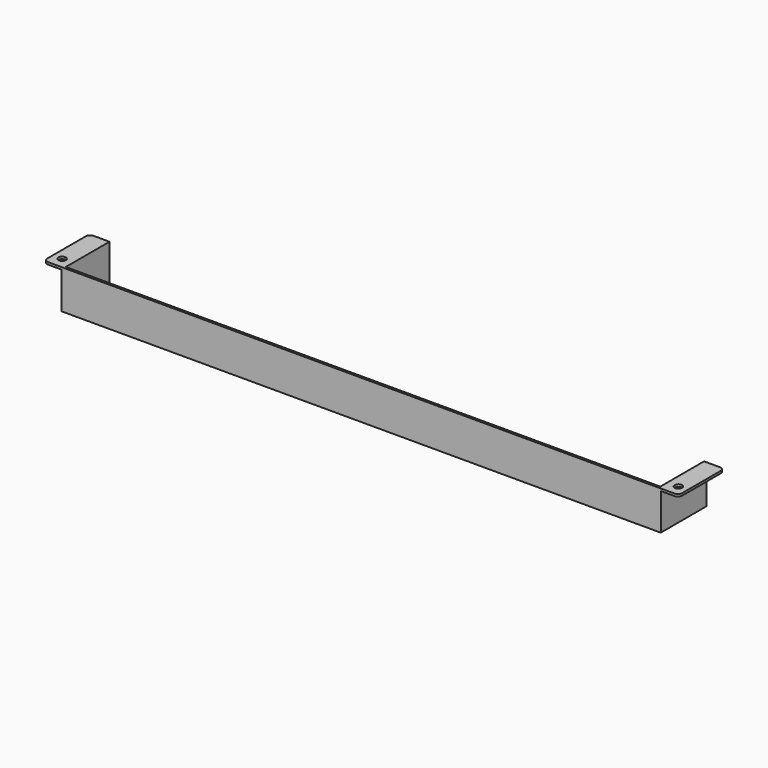
from build123d import *

# Parameters (mm, degrees)
F0_W     = 400
F0_H     = 26
F1_DEPTH = 38
F2_T     = -1.5
F3_W     = 38
F3_H     = 1.5
F4_DEPTH = 12
F5_W     = 38
F5_H     = 1.5
F6_DEPTH = 12
F7_R     = 2.5
F8_DEPTH = 1.5
F9_R     = 3


with BuildPart() as f1:
    # F0 (on Front) → F1 (new body)
    with BuildSketch(Plane.XZ):
        with Locations((200, 13)):
            Rectangle(F0_W, F0_H)
    extrude(amount=-F1_DEPTH)

    # F2
    f2_openings = [f1.faces().sort_by_distance(p)[0] for p in [
        (200, 19, 26),
        (200, 38, 13),
    ]]
    offset(amount=F2_T, openings=f2_openings)

    # F3 (on face) → F4 (join)
    with BuildSketch(Plane.YZ.offset(400)):
        with Locations((19, 25.25)):
            Rectangle(F3_W, F3_H)
    extrude(amount=F4_DEPTH)

    # F5 (on face) → F6 (join)
    with BuildSketch(Plane(origin=(0, 0, 0), x_dir=(0, -1, 0), z_dir=(-1, 0, 0))):
        with Locations((-19, 25.25)):
            Rectangle(F5_W, F5_H)
    extrude(amount=F6_DEPTH)

    # F7 (on face) → F8 (cut, through all)
    with BuildSketch(Plane.XY.offset(26)):
        with Locations((405.75, 7.5)):
            Circle(F7_R)
        with Locations((-5.75, 7.5)):
            Circle(F7_R)
    extrude(amount=-F8_DEPTH, mode=Mode.SUBTRACT)

    # F9
    f9_edges = [f1.edges().sort_by_distance(p)[0] for p in [
        (-12, 0, 25.25),
        (-12, 38, 25.25),
        (412, 0, 25.25),
        (412, 38, 25.25),
    ]]
    fillet(f9_edges, radius=F9_R)


solid = f1.part
